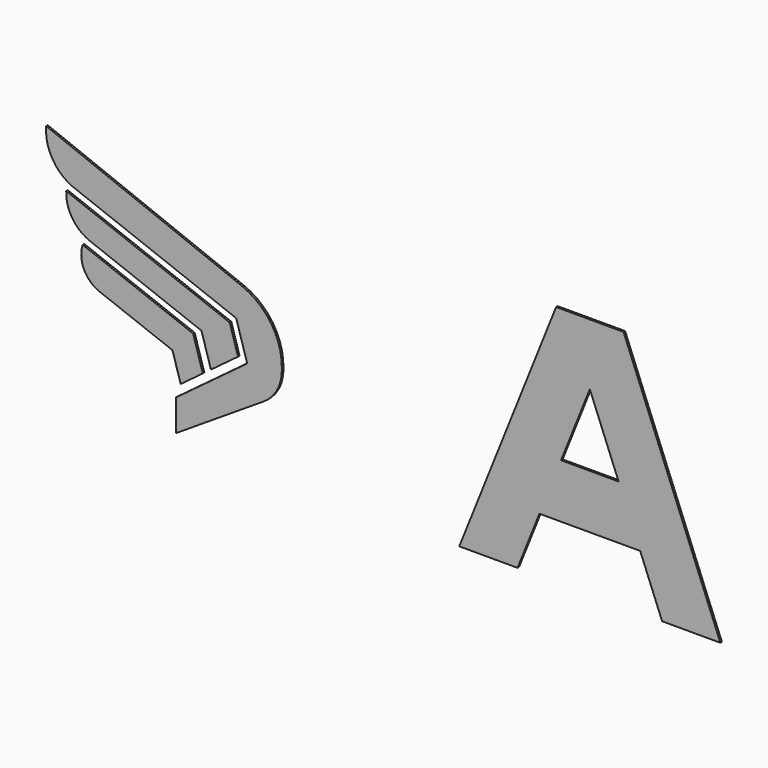
from build123d import *

# Parameters (mm, degrees)
F1_DEPTH = 0.508
F3_DEPTH = 0.508


with BuildPart() as f1:
    # F0 (on Front) → F1 (new body)
    with BuildSketch(Plane.XZ):
        Polygon((8.844362, 0), (0, 0), (-8.844362, 0), (-34.229513, -63.5), (-18.954152, -63.5), (-13.210332, -49.13205), (0, -49.13205), (13.210332, -49.13205), (18.954152, -63.5), (34.229513, -63.5), align=None)
        Polygon((-7.540065, -34.94809), (0, -16.086903), (7.540065, -34.94809), (0, -34.94809), align=None, mode=Mode.SUBTRACT)
    extrude(amount=F1_DEPTH)


with BuildPart() as f3:
    # F2 (on Front) → F3 (new body)
    with BuildSketch(Plane.XZ):
        with BuildLine():
            Line((-108.542908, -53.299198), (-108.542908, -61.546377))
            Line((-108.542908, -61.546377), (-85.490717, -46.712794))
            ThreePointArc((-85.490717, -46.712794), (-81.992006, -42.930825), (-80.759841, -37.928222))
            ThreePointArc((-80.759841, -37.928222), (-83.438741, -28.271254), (-91.20814, -21.94117))
            Line((-91.20814, -21.94117), (-142.532776, -1.714468))
            ThreePointArc((-142.532776, -1.714468), (-140.979979, -8.670944), (-135.662392, -13.417209))
            Line((-135.662392, -13.417209), (-92.730591, -29.848646))
            Line((-92.730591, -29.848646), (-91.351197, -34.401109))
            Line((-91.351197, -34.401109), (-89.844323, -39.374299))
            Line((-89.844323, -39.374299), (-95.097197, -43.286132))
            Line((-95.097197, -43.286132), (-108.542908, -53.299198))
        make_face()
        with BuildLine():
            Line((-99.353974, -43.87894), (-96.331786, -41.628306))
            Line((-96.331786, -41.628306), (-92.243654, -38.58386))
            Line((-92.243654, -38.58386), (-93.329408, -35.000506))
            Line((-93.329408, -35.000506), (-94.415163, -31.417152))
            Line((-94.415163, -31.417152), (-137.291508, -15.00694))
            ThreePointArc((-137.291508, -15.00694), (-135.703184, -20.776942), (-131.041242, -24.52954))
            Line((-131.041242, -24.52954), (-111.755584, -31.910807))
            Line((-111.755584, -31.910807), (-101.829165, -35.709979))
            Line((-101.829165, -35.709979), (-99.353974, -43.87894))
        make_face()
        with BuildLine():
            Line((-104.018986, -37.08511), (-112.494437, -33.841271))
            Line((-112.494437, -33.841271), (-132.971331, -26.004078))
            ThreePointArc((-132.971331, -26.004078), (-132.642649, -31.577795), (-128.548419, -35.37406))
            Line((-128.548419, -35.37406), (-109.430363, -42.691181))
            Line((-109.430363, -42.691181), (-107.281637, -49.782697))
            Line((-107.281637, -49.782697), (-101.480597, -45.462643))
            Line((-101.480597, -45.462643), (-104.018986, -37.08511))
        make_face()
    extrude(amount=F3_DEPTH)


solid = Compound([f1.part, f3.part])
